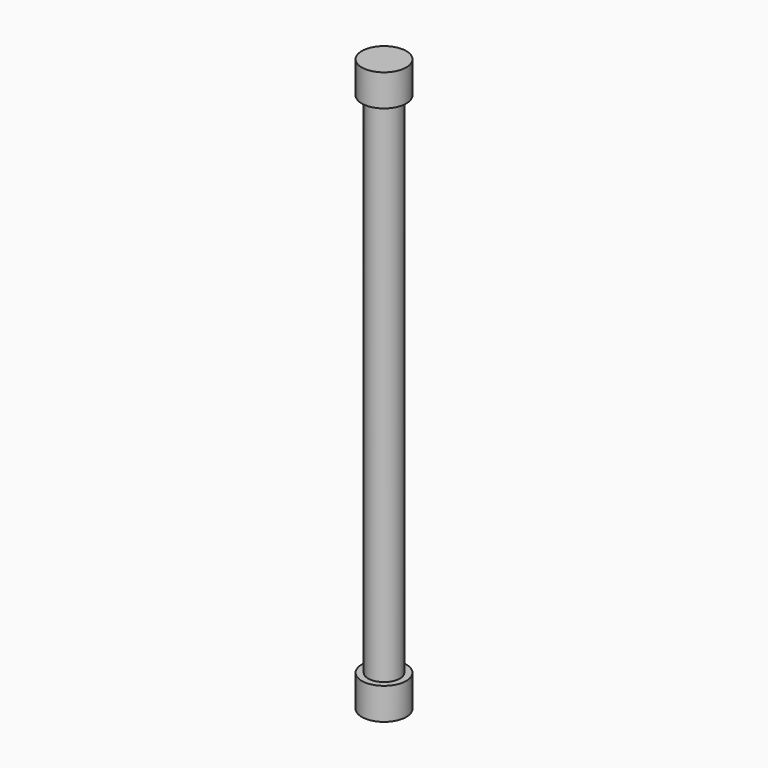
from build123d import *

# Parameters (mm, degrees)
F0_R     = 2.38125
F1_DEPTH = 85.725
F2_R     = 3.33375
F2_R_2   = 2.38125
F3_DEPTH = 4.7625
F4_R     = 3.33375
F4_R_2   = 2.38125
F5_DEPTH = 4.7625


with BuildPart() as f1:
    # F0 (on Top) → F1 (new body)
    with BuildSketch(Plane.XY):
        Circle(F0_R)
    extrude(amount=F1_DEPTH)

    # F2 (on face) → F3 (join)
    with BuildSketch(Plane(origin=(0, 0, 0), x_dir=(1, 0, 0), z_dir=(0, 0, -1))):
        Circle(F2_R)
        Circle(F2_R_2, mode=Mode.SUBTRACT)
    extrude(amount=-F3_DEPTH)

    # F4 (on face) → F5 (join)
    with BuildSketch(Plane.XY.offset(85.725)):
        Circle(F4_R)
        Circle(F4_R_2, mode=Mode.SUBTRACT)
    extrude(amount=-F5_DEPTH)


solid = f1.part
